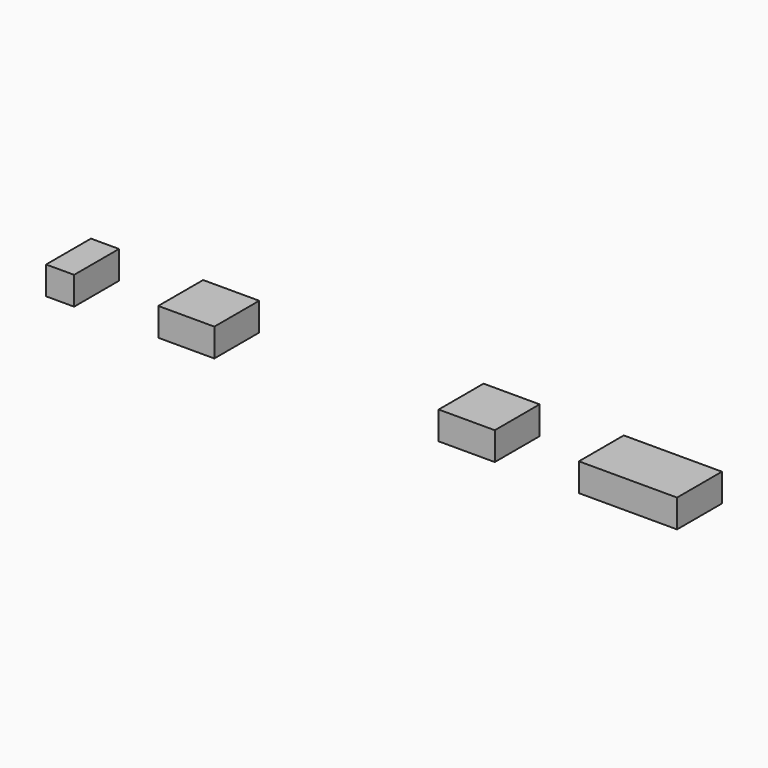
from build123d import *

# Parameters (mm, degrees)
BOX023_W     = 4
BOX023_H     = 4
BOX023_DEPTH = 2
BOX024_W     = 4
BOX024_H     = 4
BOX024_DEPTH = 2
BOX025_W     = 7
BOX025_H     = 4
BOX025_DEPTH = 2
BOX018_W     = 2
BOX018_H     = 4
BOX018_DEPTH = 2


with BuildPart() as cube021:
    # Box023 → Box023 (new body)
    with BuildSketch(Plane(origin=(8, 8, 39), x_dir=(1, 0, 0), z_dir=(0, 0, 1))):
        with Locations((2, 2)):
            Rectangle(BOX023_W, BOX023_H)
    extrude(amount=BOX023_DEPTH)


with BuildPart() as cube022:
    # Box024 → Box024 (new body)
    with BuildSketch(Plane(origin=(28, 8, 39), x_dir=(1, 0, 0), z_dir=(0, 0, 1))):
        with Locations((2, 2)):
            Rectangle(BOX024_W, BOX024_H)
    extrude(amount=BOX024_DEPTH)


with BuildPart() as cube023:
    # Box025 → Box025 (new body)
    with BuildSketch(Plane(origin=(38, 8, 39), x_dir=(1, 0, 0), z_dir=(0, 0, 1))):
        with Locations((3.5, 2)):
            Rectangle(BOX025_W, BOX025_H)
    extrude(amount=BOX025_DEPTH)


with BuildPart() as fusion014015:
    # Box018 → Box018 (new body)
    with BuildSketch(Plane(origin=(0, 8, 39), x_dir=(1, 0, 0), z_dir=(0, 0, 1))):
        with Locations((1, 2)):
            Rectangle(BOX018_W, BOX018_H)
    extrude(amount=BOX018_DEPTH)

    # Fusion014015: union Cube021, Cube022, Cube023
    add(cube021.part)
    add(cube022.part)
    add(cube023.part)


solid = fusion014015.part
